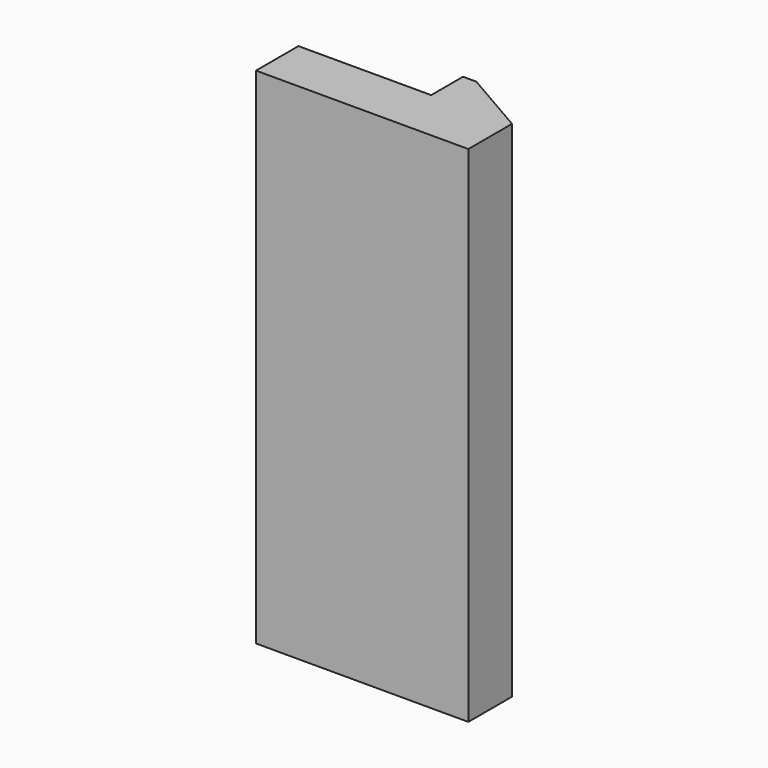
from build123d import *

# Parameters (mm, degrees)
F1_DEPTH = 19
F2_SIZE2 = 1.443375673
F2_SIZE  = 2.5


with BuildPart() as f1:
    # F0 (on Top) → F1 (new body)
    with BuildSketch(Plane.XY):
        Polygon((0, 2), (0, 0), (8, 0), (8, 3.5), (5, 3.5), (5, 2), align=None)
    extrude(amount=F1_DEPTH)

    # F2
    f2_edges = [f1.edges().sort_by_distance(p)[0] for p in [
        (8, 3.5, 9.5),
    ]]
    f2_side = f1.faces().sort_by_distance((6.5, 3.5, 9.5))[0]
    chamfer(f2_edges, length=F2_SIZE, length2=F2_SIZE2, reference=f2_side)


solid = f1.part
